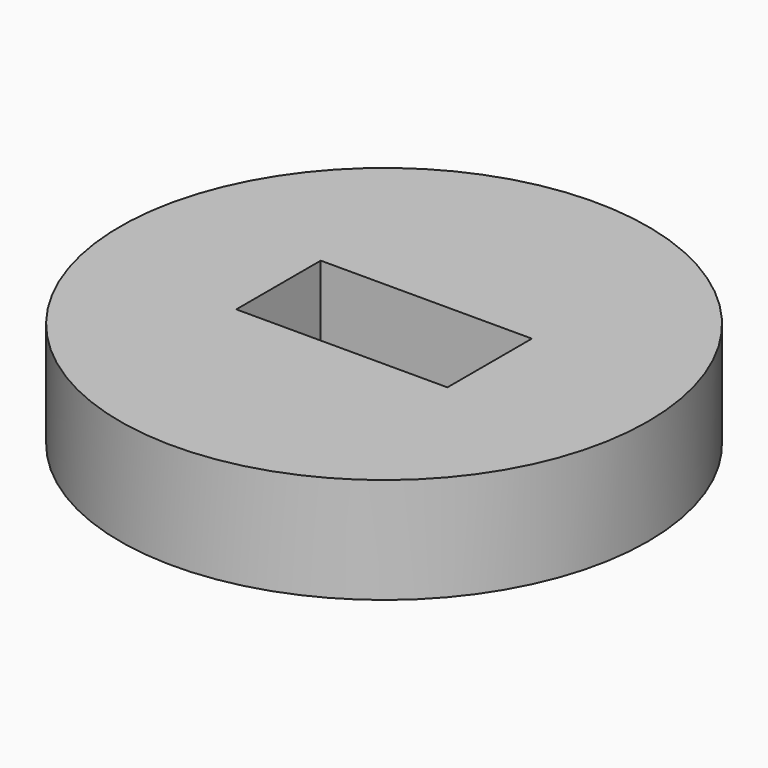
from build123d import *

# Parameters (mm, degrees)
F0_R     = 63.5
F1_DEPTH = 25.4
F2_W     = 50.8
F2_H     = 25.4
F3_DEPTH = 25.401


with BuildPart() as f1:
    # F0 (on Top) → F1 (new body)
    with BuildSketch(Plane.XY):
        Circle(F0_R)
    extrude(amount=-F1_DEPTH)

    # F2 (on face) → F3 (cut, through all)
    with BuildSketch(Plane.XY):
        Rectangle(F2_W, F2_H)
    extrude(amount=-F3_DEPTH, mode=Mode.SUBTRACT)


solid = f1.part
